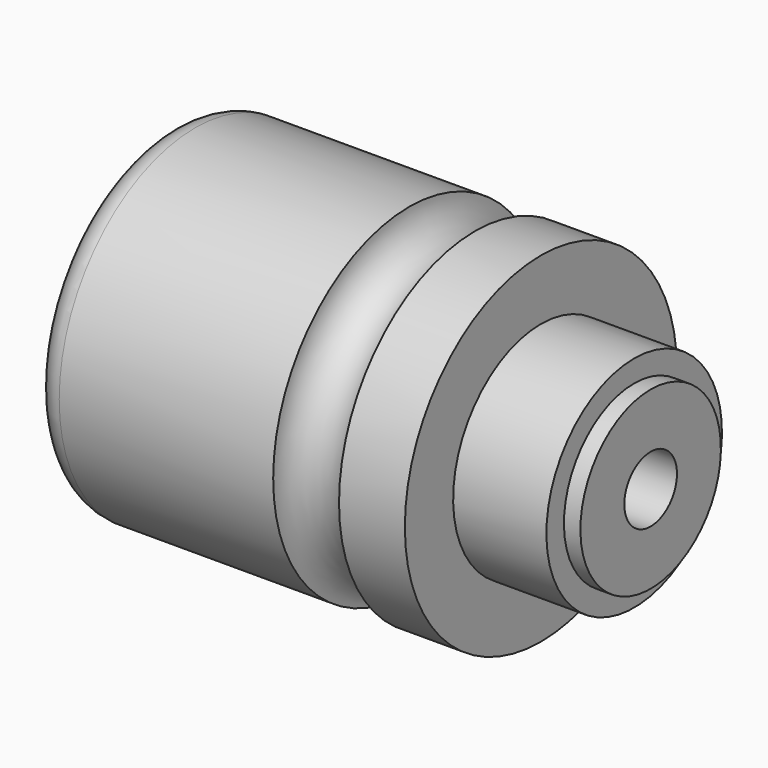
from build123d import *


with BuildPart() as f1:
    # F0 (on Front) → F1 (revolve)
    with BuildSketch(Plane.XZ):
        with BuildLine():
            Line((0, 26), (0, 25))
            Line((0, 25), (1.5, 25))
            Line((1.5, 25), (1.5, 16))
            Line((1.5, 16), (13.5, 16))
            Line((13.5, 16), (13.5, 11.5))
            Line((13.5, 11.5), (16.5, 11.5))
            Line((16.5, 11.5), (16.5, 20.5))
            Line((16.5, 20.5), (22, 20.5))
            Line((22, 20.5), (22, 16))
            Line((22, 16), (30, 16))
            Line((30, 16), (30, 6))
            Line((30, 6), (88, 6))
            Line((88, 6), (88, 16))
            Line((88, 16), (85, 16))
            Line((85, 16), (85, 20))
            Line((85, 20), (68, 20))
            Line((68, 20), (68, 31))
            Line((68, 31), (56, 31))
            ThreePointArc((56, 31), (50, 25), (44, 31))
            Line((44, 31), (5, 31))
            ThreePointArc((5, 31), (1.464466, 29.535534), (0, 26))
        make_face()
    revolve(axis=Axis((54.839118, 0, 0), (1, 0, 0)))


solid = f1.part
